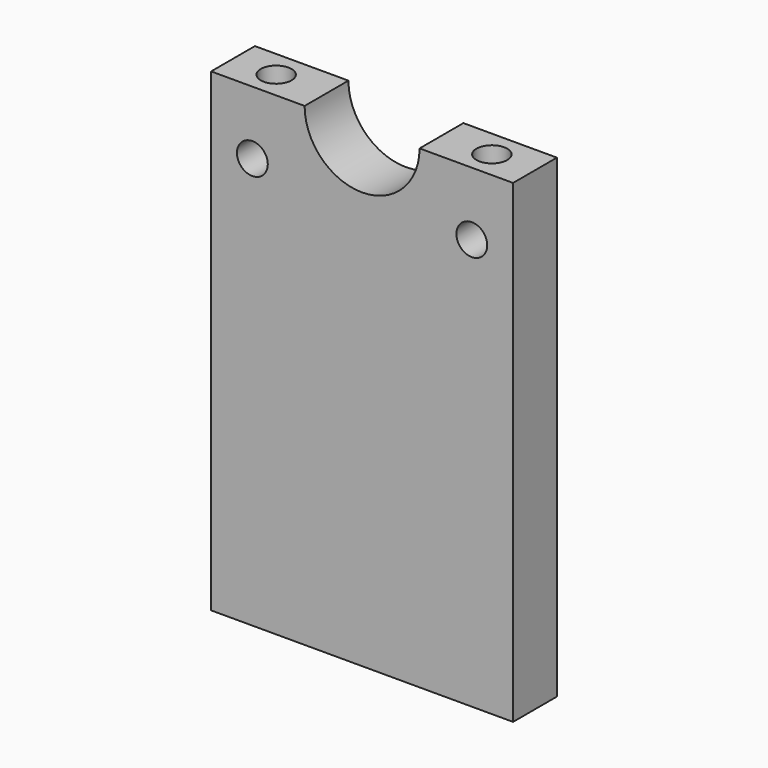
from build123d import *

# Parameters (mm, degrees)
SKETCH026_R  = 3.571875
PAD026_DEPTH = 6
SKETCH025_R  = 3.571875
PAD025_DEPTH = 6
SKETCH024_R  = 3.571875
PAD024_DEPTH = 50
SKETCH023_R  = 3.571875
PAD023_DEPTH = 33.7
PAD001_DEPTH = 12.7


with BuildPart() as body026:
    # Sketch026 → Pad026 (new body)
    with BuildSketch(Plane.XY):
        Circle(SKETCH026_R)
    extrude(amount=PAD026_DEPTH)


with BuildPart() as body026_1:
    # Body026 placement: moved
    add(body026.part.moved(Location((150, -6.35, 115))))


with BuildPart() as body025:
    # Sketch025 → Pad025 (new body)
    with BuildSketch(Plane.XY):
        Circle(SKETCH025_R)
    extrude(amount=PAD025_DEPTH)


with BuildPart() as body025_1:
    # Body025 placement: moved
    add(body025.part.moved(Location((100, -6.35, 115))))


with BuildPart() as body024:
    # Sketch024 → Pad024 (new body)
    with BuildSketch(Plane.XZ):
        Circle(SKETCH024_R)
    extrude(amount=PAD024_DEPTH)


with BuildPart() as body024_1:
    # Body024 placement: moved
    add(body024.part.moved(Location((50.4341, 10, 105.316))))


with BuildPart() as body023:
    # Sketch023 → Pad023 (new body)
    with BuildSketch(Plane.XZ):
        Circle(SKETCH023_R)
    extrude(amount=PAD023_DEPTH)


with BuildPart() as body023_1:
    # Body023 placement: moved
    add(body023.part.moved(Location((-0.434083, 5, 105.316))))


with BuildPart() as bracelower001:
    # Sketch001 → Pad001 (new body)
    with BuildSketch(Plane.XZ):
        with BuildLine():
            Line((0, 0), (0, 110))
            Line((0, 110), (21.675, 110))
            ThreePointArc((21.675, 110), (35, 96.674972), (48.325, 110))
            Line((48.325, 110), (70, 110))
            Line((70, 110), (70, 0))
            Line((70, 0), (0, 0))
        make_face()
    extrude(amount=PAD001_DEPTH)


with BuildPart() as bracelower001_1:
    # Body001 placement: moved
    add(bracelower001.part.moved(Location((-10, 0, 10))))

    # Cut016: cut Body023
    add(body023_1.part, mode=Mode.SUBTRACT)

    # Cut017: cut Body024
    add(body024_1.part, mode=Mode.SUBTRACT)


with BuildPart() as bracelower001_2:
    # Cut017 placement: moved
    add(bracelower001_1.part.moved(Location((100, 0, 0))))

    # Cut018: cut Body025
    add(body025_1.part, mode=Mode.SUBTRACT)

    # Cut019: cut Body026
    add(body026_1.part, mode=Mode.SUBTRACT)


with BuildPart() as bracelower001_3:
    # Cut019 placement: moved
    add(bracelower001_2.part.moved(Location((-100, 0, 0))))


solid = bracelower001_3.part
